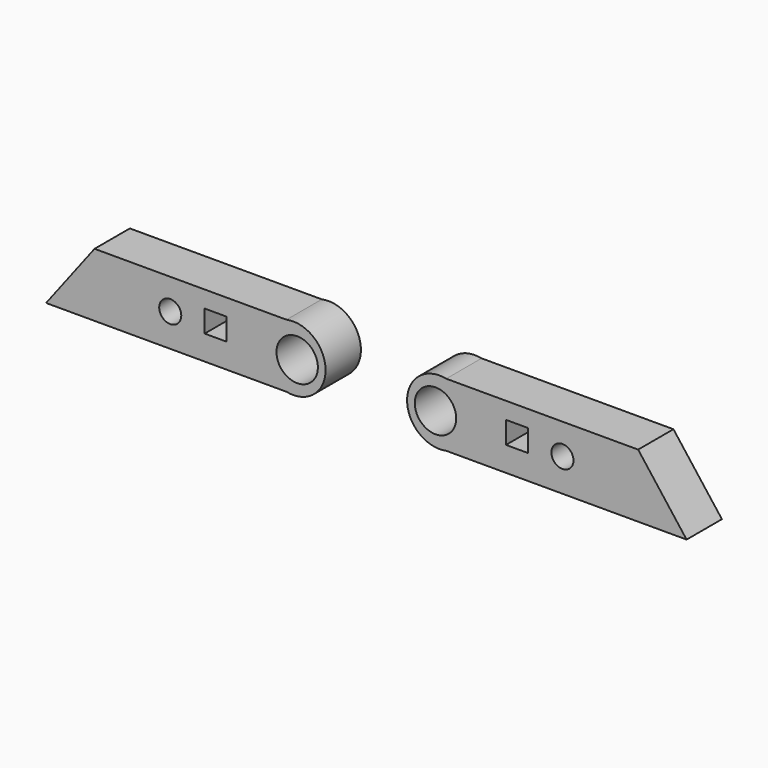
from build123d import *

# Parameters (mm, degrees)
F0_R     = 6.35
F0_W     = 12.7
F0_H     = 12.7
F0_R_2   = 11.90625
F1_DEPTH = 25.4


with BuildPart() as f1:
    # F0 (on Front) → F1 (new body)
    with BuildSketch(Plane.XZ):
        with BuildLine():
            Line((61.502689, 45.330923), (-48.918105, 45.330923))
            Line((-48.918105, 45.330923), (-76.802014, 8.818423))
            Line((-76.802014, 8.818423), (61.502689, 8.818423))
            ThreePointArc((61.502689, 8.818423), (84.011085, 27.074673), (61.502689, 45.330923))
        make_face()
        with Locations((-5.364514, 27.702175)):
            Circle(F0_R, mode=Mode.SUBTRACT)
        with Locations((20.771147, 29.331241)):
            Rectangle(F0_W, F0_H, mode=Mode.SUBTRACT)
        with Locations((67.660486, 27.074673)):
            Circle(F0_R_2, mode=Mode.SUBTRACT)
        with BuildLine():
            Line((291.713878, 8.818423), (263.829968, 45.330923))
            Line((263.829968, 45.330923), (153.409175, 45.330923))
            ThreePointArc((153.409175, 45.330923), (130.900778, 27.074673), (153.409175, 8.818423))
            Line((153.409175, 8.818423), (291.713878, 8.818423))
        make_face()
        with Locations((147.251378, 27.074673)):
            Circle(F0_R_2, mode=Mode.SUBTRACT)
        with Locations((194.140717, 29.331241)):
            Rectangle(F0_W, F0_H, mode=Mode.SUBTRACT)
        with Locations((220.276378, 27.702175)):
            Circle(F0_R, mode=Mode.SUBTRACT)
    extrude(amount=F1_DEPTH)


solid = f1.part
